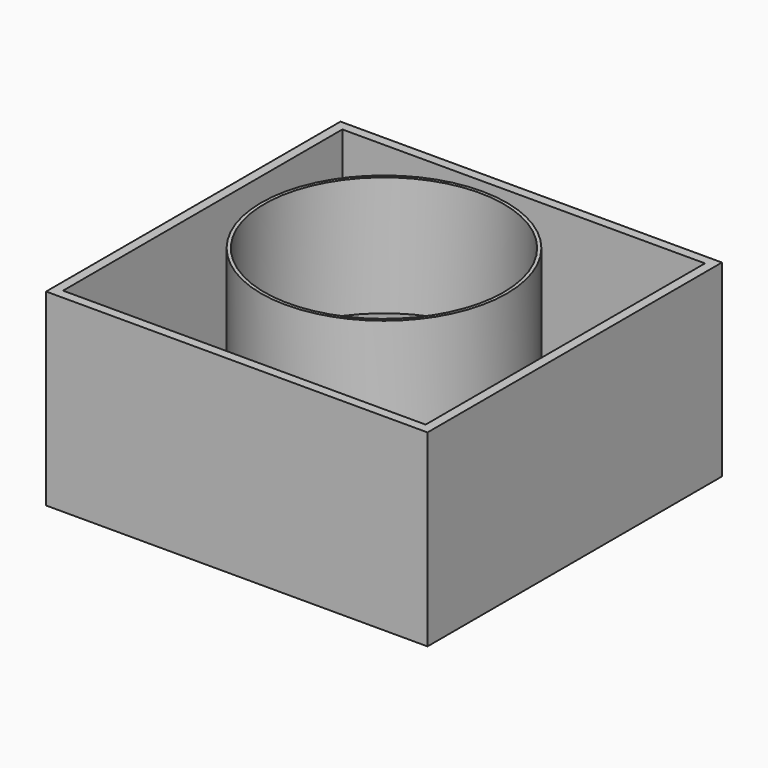
from build123d import *

# Parameters (mm, degrees)
F0_W          = 80.9896805286
F0_H          = 78.1383731365
F0_W_2        = 76.9896805286
F0_H_2        = 74.1383731365
F1_DEPTH      = 20
F1_DEPTH_BACK = 20
F2_R          = 26.1
F2_R_2        = 25.4
F3_DEPTH      = 25.4


with BuildPart() as f1:
    # F0 (on Top) → F1 (new body, two sides)
    with BuildSketch(Plane.XY) as f1_sk:
        Rectangle(F0_W, F0_H)
        Rectangle(F0_W_2, F0_H_2, mode=Mode.SUBTRACT)
    extrude(amount=-F1_DEPTH)
    extrude(f1_sk.sketch, amount=F1_DEPTH_BACK)


with BuildPart() as f3:
    # F2 (on Top) → F3 (new body)
    with BuildSketch(Plane.XY):
        Circle(F2_R)
        Circle(F2_R_2, mode=Mode.SUBTRACT)
    extrude(amount=F3_DEPTH)


solid = Compound([f1.part, f3.part])
